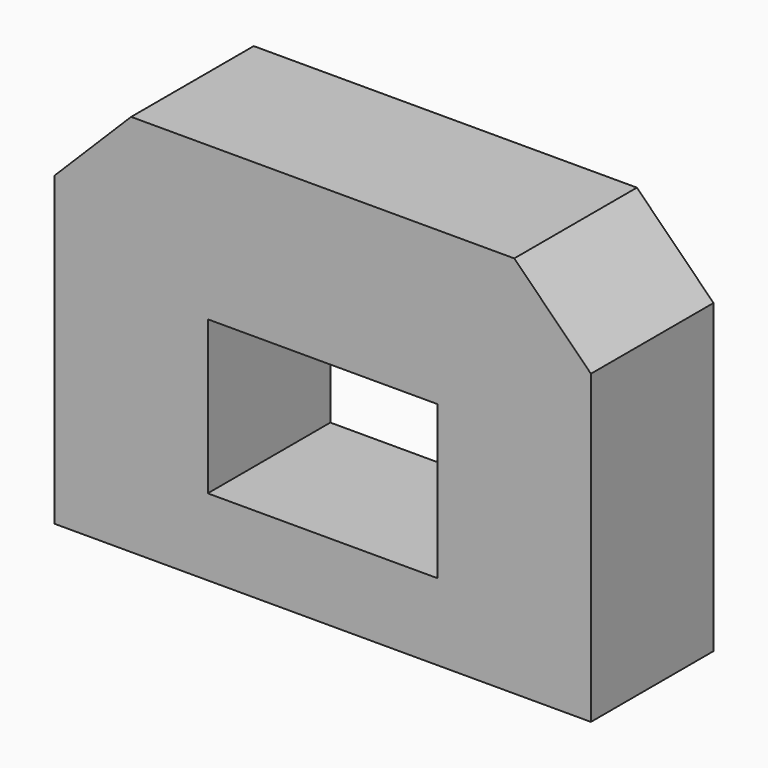
from build123d import *

# Parameters (mm, degrees)
BOX001_W     = 3
BOX001_H     = 2
BOX001_DEPTH = 2
BOX_W        = 7
BOX_H        = 2
BOX_DEPTH    = 5
CHAMFER_SIZE = 1


with BuildPart() as cube001:
    # Box001 → Box001 (new body)
    with BuildSketch(Plane(origin=(-1.5, -2, 3), x_dir=(1, 0, 0), z_dir=(0, 0, 1))):
        with Locations((1.5, 1)):
            Rectangle(BOX001_W, BOX001_H)
    extrude(amount=BOX001_DEPTH)


with BuildPart() as chamfer_body:
    # Box → Box (new body)
    with BuildSketch(Plane(origin=(-3.5, -2, 2), x_dir=(1, 0, 0), z_dir=(0, 0, 1))):
        with Locations((3.5, 1)):
            Rectangle(BOX_W, BOX_H)
    extrude(amount=BOX_DEPTH)

    # Cut: cut Cube001
    add(cube001.part, mode=Mode.SUBTRACT)

    # Chamfer
    chamfer_edges = [chamfer_body.edges().sort_by_distance(p)[0] for p in [
        (-3.5, -1, 7),
        (3.5, -1, 7),
    ]]
    chamfer(chamfer_edges, length=CHAMFER_SIZE)


with BuildPart() as chamfer_body_1:
    # Chamfer placement: moved
    add(chamfer_body.part.moved(Location((0, -9, 0))))


solid = chamfer_body_1.part
